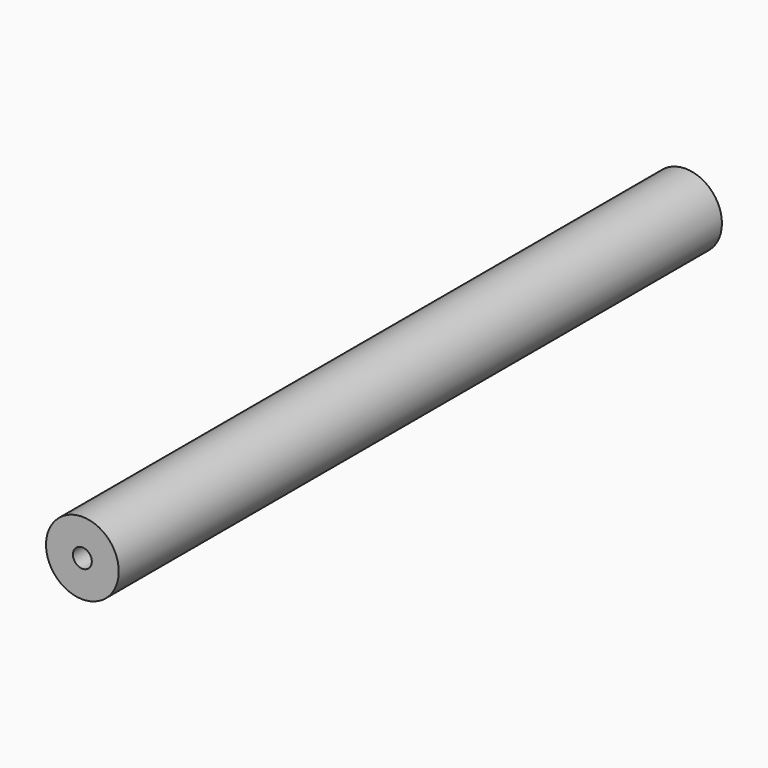
from build123d import *

# Parameters (mm, degrees)
F0_R     = 7.3526801957
F1_DEPTH = 152.4
F2_D     = 3.81


with BuildPart() as f1:
    # F0 (on Front) → F1 (new body)
    with BuildSketch(Plane.XZ):
        with Locations((-44.142331928, 8.6254319176)):
            Circle(F0_R)
    extrude(amount=F1_DEPTH)

    # F2 (through all)
    with Locations(Plane(origin=(0, 0, 0), x_dir=(1, 0, 0), z_dir=(0, 1, 0))):
        with Locations((-44.142331928, -8.6254319176)):
            Hole(F2_D / 2)


solid = f1.part
